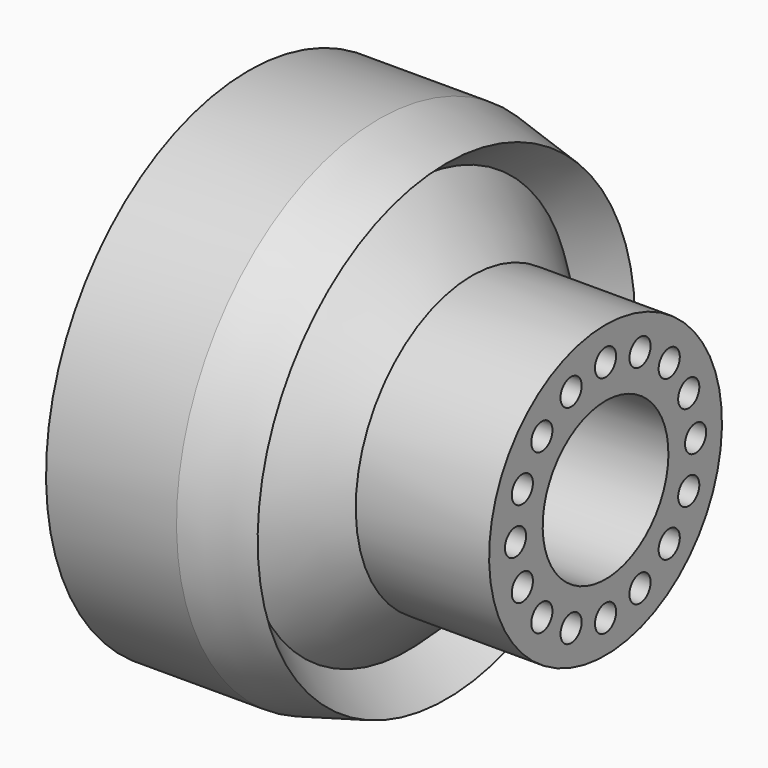
from build123d import *

# Parameters (mm, degrees)
F4_R     = 2.749128
F5_DEPTH = 116.54737
F6_R     = 3.936749
F7_DEPTH = 15.34988


with BuildPart() as f1:
    # F0 (on Front) → F1 (revolve)
    with BuildSketch(Plane.XZ):
        Polygon((-46.486259, 52.595027), (-46.486259, 0), (27.712962, 0), (27.712962, 30.245865), (0, 30.245865), (-13.409497, 42.761397), (-5.363799, 49.019165), (-19.369274, 52.595027), align=None)
    revolve(axis=Axis((-9.386648, 0, 0), (1, 0, 0)))

    # F2 (on Front) → F3 (revolve, cut)
    with BuildSketch(Plane.XZ):
        Polygon((-46.784248, 36.205642), (-46.784248, 0), (29.866308, 0), (29.866308, 16.328184), (-21.88828, 16.328184), (-24.704097, 18.956281), (-30.898897, 18.956281), (-38.220026, 34.53714), (-38.220026, 37.993576), (-34.864694, 37.993576), (-34.864694, 43.357376), (-43.506369, 43.357376), (-43.506369, 36.205642), align=None)
    revolve(axis=Axis((-8.45897, 0, 0), (-1, 0, 0)), mode=Mode.SUBTRACT)

    # F4 (on face) → F5 (cut)
    with BuildSketch(Plane.YZ.offset(27.712962)):
        with Locations((0, 23.392122)):
            Circle(F4_R)
        with Locations((-8.951778, 21.611503)):
            Circle(F4_R)
        with Locations((-16.540728, 16.540728)):
            Circle(F4_R)
        with Locations((-21.611503, 8.951778)):
            Circle(F4_R)
        with Locations((-23.392122, 0)):
            Circle(F4_R)
        with Locations((-21.611503, -8.951778)):
            Circle(F4_R)
        with Locations((-16.540728, -16.540728)):
            Circle(F4_R)
        with Locations((-8.951778, -21.611503)):
            Circle(F4_R)
        with Locations((0, -23.392122)):
            Circle(F4_R)
        with Locations((8.951778, -21.611503)):
            Circle(F4_R)
        with Locations((16.540728, -16.540728)):
            Circle(F4_R)
        with Locations((21.611503, -8.951778)):
            Circle(F4_R)
        with Locations((23.392122, 0)):
            Circle(F4_R)
        with Locations((21.611503, 8.951778)):
            Circle(F4_R)
        with Locations((16.540728, 16.540728)):
            Circle(F4_R)
        with Locations((8.951778, 21.611503)):
            Circle(F4_R)
    extrude(amount=-F5_DEPTH, mode=Mode.SUBTRACT)

    # F6 (on face) → F7 (cut)
    with BuildSketch(Plane(origin=(-46.486259, 0, 0), x_dir=(0, -1, 0), z_dir=(-1, 0, 0))):
        with Locations((0, 23.440594)):
            Circle(F6_R)
        with Locations((-8.970327, 21.656285)):
            Circle(F6_R)
        with Locations((-16.575003, 16.575003)):
            Circle(F6_R)
        with Locations((-21.656285, 8.970327)):
            Circle(F6_R)
        with Locations((-23.440594, 0)):
            Circle(F6_R)
        with Locations((-21.656285, -8.970327)):
            Circle(F6_R)
        with Locations((-16.575003, -16.575003)):
            Circle(F6_R)
        with Locations((-8.970327, -21.656285)):
            Circle(F6_R)
        with Locations((0, -23.440594)):
            Circle(F6_R)
        with Locations((8.970327, -21.656285)):
            Circle(F6_R)
        with Locations((16.575003, -16.575003)):
            Circle(F6_R)
        with Locations((21.656285, -8.970327)):
            Circle(F6_R)
        with Locations((23.440594, 0)):
            Circle(F6_R)
        with Locations((21.656285, 8.970327)):
            Circle(F6_R)
        with Locations((16.575003, 16.575003)):
            Circle(F6_R)
        with Locations((8.970327, 21.656285)):
            Circle(F6_R)
    extrude(amount=-F7_DEPTH, mode=Mode.SUBTRACT)


solid = f1.part
